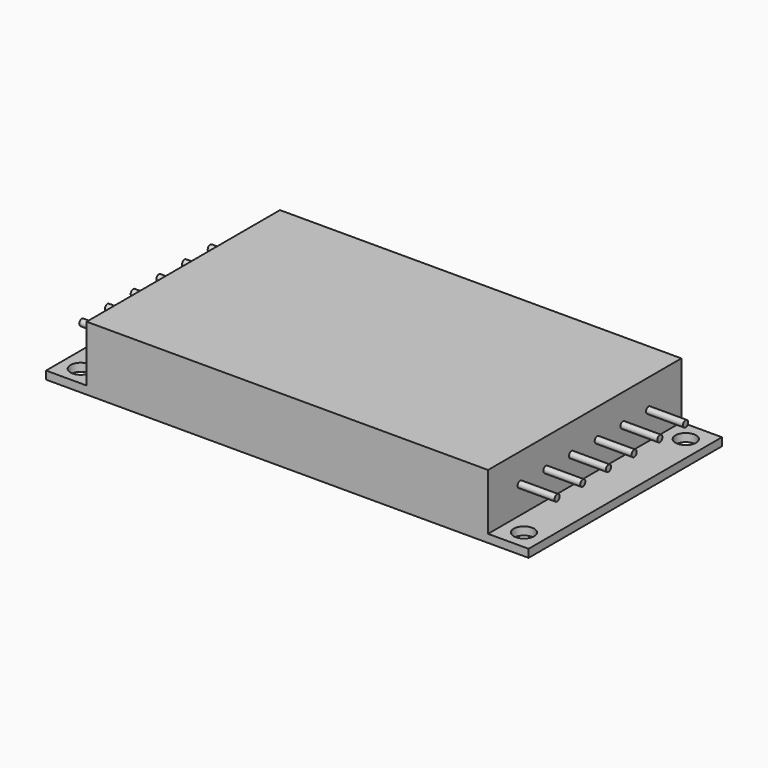
from build123d import *

# Parameters (mm, degrees)
F0_W      = 76.327
F0_H      = 38.227
F1_DEPTH  = 1.27
F2_W      = 63.5
F2_H      = 38.227
F3_DEPTH  = 8.89
F5_D      = 3.2512
F6_D      = 3.2512
F8_D      = 3.2512
F9_D      = 3.2512
F10_R     = 0.508
F12_DEPTH = 5.842
F11_R     = 0.508
F13_DEPTH = 5.842
F14_SIZE  = 1.27


with BuildPart() as f1:
    # F0 (on Top) → F1 (new body)
    with BuildSketch(Plane.XY):
        Rectangle(F0_W, F0_H)
    extrude(amount=F1_DEPTH)

    # F2 (on face) → F3 (join)
    with BuildSketch(Plane.XY.offset(1.27)):
        Rectangle(F2_W, F2_H)
    extrude(amount=F3_DEPTH)

    # F5 (through all)
    with Locations(Plane.XY.offset(1.27)):
        with Locations((34.9885, -16.0655)):
            Hole(F5_D / 2)

    # F6 (through all)
    with Locations(Plane.XY.offset(1.27)):
        with Locations((34.9885, 15.9385)):
            Hole(F6_D / 2)

    # F8 (through all)
    with Locations(Plane.XY.offset(1.27)):
        with Locations((-35.1155, -16.0655)):
            Hole(F8_D / 2)

    # F9 (through all)
    with Locations(Plane.XY.offset(1.27)):
        with Locations((-35.1155, 15.9385)):
            Hole(F9_D / 2)

    # F10 (on face) → F12 (join)
    with BuildSketch(Plane.YZ.offset(31.75)):
        with Locations((-12.7635, 5.588)):
            Circle(F10_R)
        with Locations((-7.6835, 5.588)):
            Circle(F10_R)
        with Locations((-2.6035, 5.588)):
            Circle(F10_R)
        with Locations((2.4765, 5.588)):
            Circle(F10_R)
        with Locations((7.5565, 5.588)):
            Circle(F10_R)
        with Locations((12.6365, 5.588)):
            Circle(F10_R)
    extrude(amount=F12_DEPTH)

    # F11 (on face) → F13 (join)
    with BuildSketch(Plane(origin=(-31.75, 0, 0), x_dir=(0, -1, 0), z_dir=(-1, 0, 0))):
        with Locations((-12.6365, 5.588)):
            Circle(F11_R)
        with Locations((-7.5565, 5.588)):
            Circle(F11_R)
        with Locations((-2.4765, 5.588)):
            Circle(F11_R)
        with Locations((2.6035, 5.588)):
            Circle(F11_R)
        with Locations((7.6835, 5.588)):
            Circle(F11_R)
        with Locations((12.7635, 5.588)):
            Circle(F11_R)
    extrude(amount=F13_DEPTH)

    # F14
    f14_edges = [f1.edges().sort_by_distance(p)[0] for p in [
        (-38.1635, 19.1135, 0.635),
    ]]
    chamfer(f14_edges, length=F14_SIZE)


solid = f1.part
